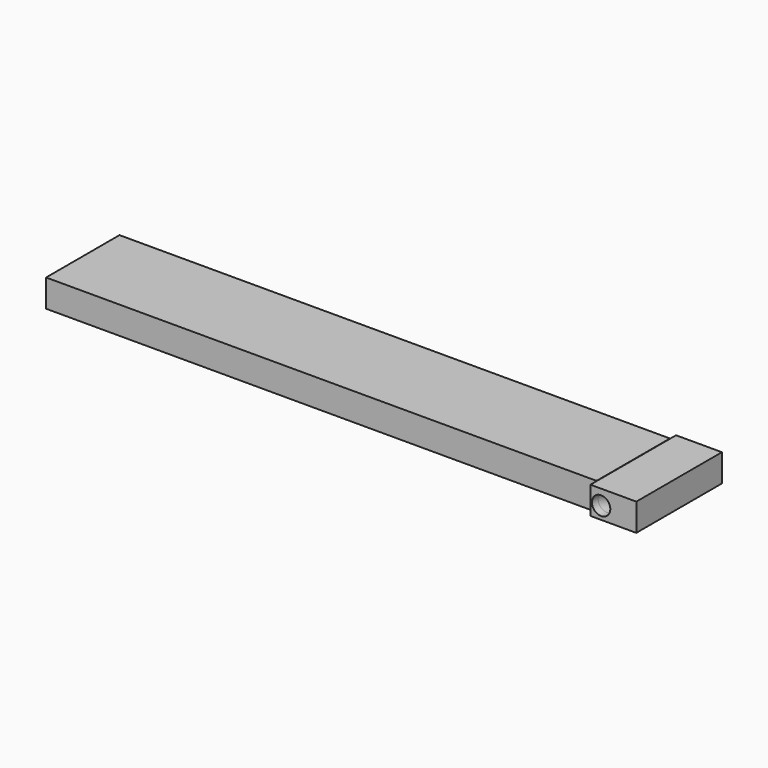
from build123d import *

# Parameters (mm, degrees)
CYLINDER041_R                = 0.6
CYLINDER041_DEPTH            = 40
CYLINDER041_PITCH_ANGLE      = 90
SKETCH004_R                  = 0.6
SWEEP_PLACEMENT_ANGLE        = 180
BOX035_W                     = 3
BOX035_H                     = 7
BOX035_DEPTH                 = 1.8
BOX034_W                     = 1.8
BOX034_H                     = 6
BOX034_DEPTH                 = 36
BOX034_PITCH_ANGLE           = 90
FUSION002018_PLACEMENT_ANGLE = 180


with BuildPart() as cilindro041:
    # Cylinder041 → Cylinder041 (new body)
    with BuildSketch(Plane.XY):
        Circle(CYLINDER041_R)
    extrude(amount=CYLINDER041_DEPTH)


with BuildPart() as cilindro041_1:
    # Cylinder041 pitch: moved
    add(cilindro041.part.rotate(Axis((0, 0, 0), (0, 1, 0)), CYLINDER041_PITCH_ANGLE))


with BuildPart() as cilindro041_2:
    # Cylinder041 placement: moved
    add(cilindro041_1.part.moved(Location((-43, 59, 57))))


with BuildPart() as fusion002020:
    # Sweep: sweep along a path in Sketch002
    with BuildLine(Plane.XY) as sweep_path:
        Line((0, 0), (2.000007, 0))
        ThreePointArc((2.000007, 0), (3.413537, 0.585387), (3.999404, 1.998718))
        Line((3.999404, 1.998718), (3.999404, 3.99963))
    # Sketch004 → Sweep (sweep)
    with BuildSketch(Plane.YZ):
        Circle(SKETCH004_R)
    sweep(path=sweep_path.line, transition=Transition.RIGHT)


with BuildPart() as fusion002020_1:
    # Sweep placement: moved
    add(fusion002020.part.moved(Location((-4.2, 59, 57))).rotate(Axis((-4.2, 59, 57), (1, 0, 0)), SWEEP_PLACEMENT_ANGLE))

    # Fusion002020: union Cilindro041
    add(cilindro041_2.part)


with BuildPart() as cubo035:
    # Box035 → Box035 (new body)
    with BuildSketch(Plane(origin=(-3, -0.5, -1.81873), x_dir=(1, 0, 0), z_dir=(0, 0, 1))):
        with Locations((1.5, 3.5)):
            Rectangle(BOX035_W, BOX035_H)
    extrude(amount=BOX035_DEPTH)


with BuildPart() as cut061:
    # Box034 → Box034 (new body)
    with BuildSketch(Plane.XY):
        with Locations((0.9, 3)):
            Rectangle(BOX034_W, BOX034_H)
    extrude(amount=BOX034_DEPTH)


with BuildPart() as cut061_1:
    # Box034 pitch: moved
    add(cut061.part.rotate(Axis((0, 0, 0), (0, 1, 0)), BOX034_PITCH_ANGLE))


with BuildPart() as cut061_2:
    # Box034 placement: moved
    add(cut061_1.part)

    # Fusion002018: union Cubo035
    add(cubo035.part)


with BuildPart() as cut061_3:
    # Fusion002018 placement: moved
    add(cut061_2.part.moved(Location((-0.9, 63, 58))).rotate(Axis((-0.9, 63, 58), (0, 0, 1)), FUSION002018_PLACEMENT_ANGLE))

    # Cut061: cut Fusion002020
    add(fusion002020_1.part, mode=Mode.SUBTRACT)


with BuildPart() as cut061_4:
    # Cut061 placement: moved
    add(cut061_3.part.moved(Location((0, 0, -11))))


solid = cut061_4.part
